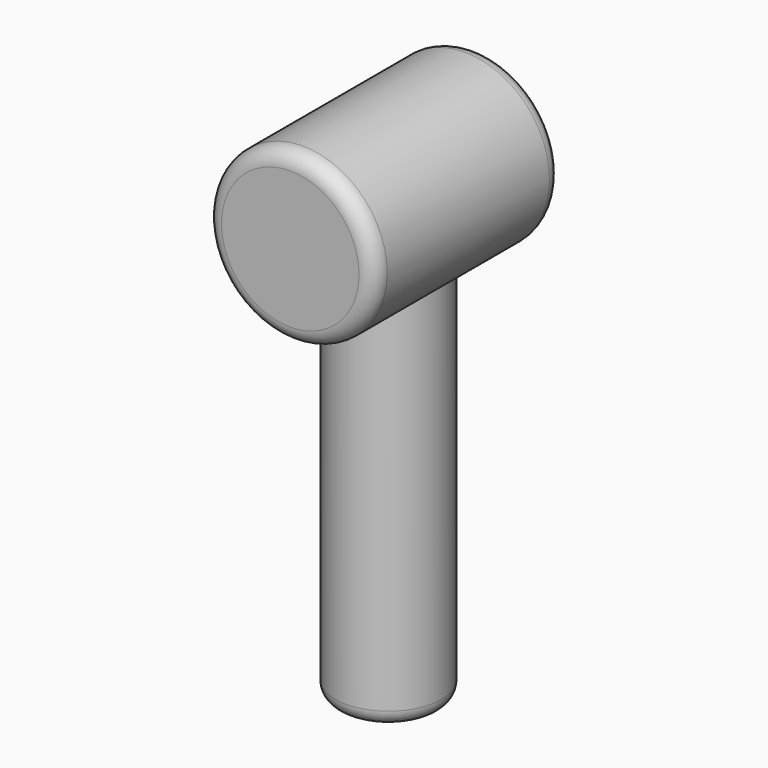
from build123d import *

# Parameters (mm, degrees)
F0_R     = 27.469765
F1_DEPTH = 76.2
F2_R     = 17.296695
F3_DEPTH = 144.78
F4_R     = 5.08
F5_R     = 5.08
F6_R     = 5.08


with BuildPart() as f1:
    # F0 (on Front) → F1 (new body)
    with BuildSketch(Plane.XZ):
        Circle(F0_R)
    extrude(amount=F1_DEPTH)

    # F2 (on Top) → F3 (join)
    with BuildSketch(Plane.XY):
        with Locations((0, -36.283679)):
            Circle(F2_R)
    extrude(amount=-F3_DEPTH)

    # F4
    f4_edges = [f1.edges().sort_by_distance(p)[0] for p in [
        (-17.296695, -36.283679, -144.78),
    ]]
    fillet(f4_edges, radius=F4_R)

    # F5
    f5_edges = [f1.edges().sort_by_distance(p)[0] for p in [
        (-27.469765, 0, 0),
    ]]
    fillet(f5_edges, radius=F5_R)

    # F6
    f6_edges = [f1.edges().sort_by_distance(p)[0] for p in [
        (-27.469765, -76.2, 0),
    ]]
    fillet(f6_edges, radius=F6_R)


solid = f1.part
